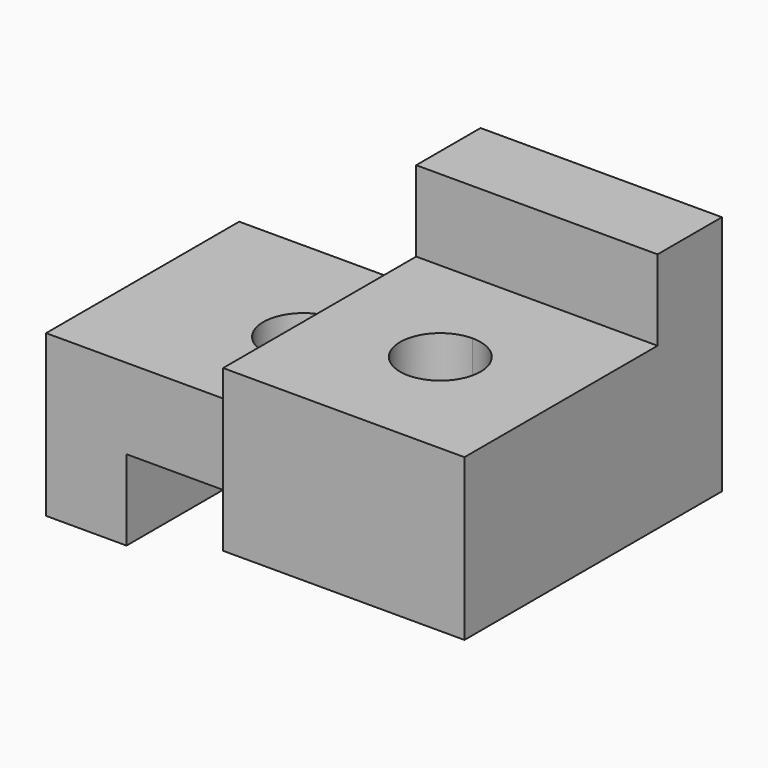
from build123d import *

# Parameters (mm, degrees)
F1_DEPTH = 19.05
F2_W     = 19.05
F2_H     = 12.7
F3_DEPTH = 25.4
F4_W     = 19.05
F4_H     = 6.35
F5_DEPTH = 6.35
F7_DEPTH = 19.05


with BuildPart() as f1:
    # F0 (on Front) → F1 (new body)
    with BuildSketch(Plane.XZ):
        Polygon((0, 12.7), (0, 0), (6.35, 0), (6.35, 6.35), (38.1, 6.35), (38.1, 12.7), align=None)
    extrude(amount=F1_DEPTH)

    # F2 (on Front) → F3 (join)
    with BuildSketch(Plane.XZ):
        with Locations((28.575, 12.7)):
            Rectangle(F2_W, F2_H)
    extrude(amount=F3_DEPTH)

    # F4 (on Front) → F5 (join)
    with BuildSketch(Plane.XZ):
        with Locations((28.575, 22.225)):
            Rectangle(F4_W, F4_H)
    extrude(amount=F5_DEPTH)

    # F6 (on Top) → F7 (cut)
    with BuildSketch(Plane.XY):
        with BuildLine():
            ThreePointArc((15.875, -9.525), (14.945064, -7.279936), (12.7, -6.35))
            ThreePointArc((12.7, -6.35), (10.454936, -11.770064), (15.875, -9.525))
        make_face()
        with BuildLine():
            ThreePointArc((31.75, -15.875), (30.820064, -13.629936), (28.575, -12.7))
            ThreePointArc((28.575, -12.7), (26.329936, -18.120064), (31.75, -15.875))
        make_face()
    extrude(amount=F7_DEPTH, mode=Mode.SUBTRACT)


solid = f1.part
